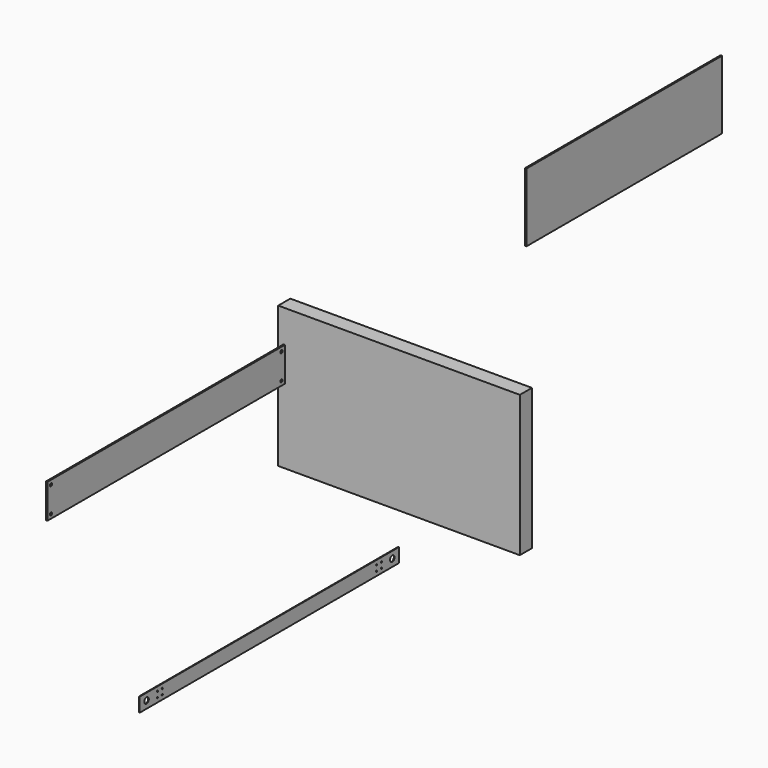
from build123d import *

# Parameters (mm, degrees)
F0_W     = 1075.69
F0_H     = 628.65
F1_DEPTH = 67.31
F2_W     = 1088.39
F2_H     = 304.8
F3_DEPTH = 6.35
F4_W     = 1320.8
F4_H     = 152.4
F4_R     = 6.35
F5_DEPTH = 6.35
F6_W     = 1444.038768
F6_H     = 62.8904
F6_R     = 3.175
F6_R_2   = 12.7
F7_DEPTH = 3.175


with BuildPart() as f1:
    # F0 (on Front) → F1 (new body)
    with BuildSketch(Plane.XZ):
        with Locations((-246.093969, -66.520754)):
            Rectangle(F0_W, F0_H)
    extrude(amount=F1_DEPTH)


with BuildPart() as f3:
    # F2 (on Right) → F3 (new body)
    with BuildSketch(Plane.YZ):
        with Locations((869.913392, 729.254132)):
            Rectangle(F2_W, F2_H)
    extrude(amount=F3_DEPTH)


with BuildPart() as f5:
    # F4 (on Right) → F5 (new body)
    with BuildSketch(Plane.YZ):
        with Locations((-1678.88408, 661.191472)):
            Rectangle(F4_W, F4_H)
        with Locations((-2320.23408, 604.041472)):
            Circle(F4_R, mode=Mode.SUBTRACT)
        with Locations((-1037.53408, 604.041472)):
            Circle(F4_R, mode=Mode.SUBTRACT)
        with Locations((-2320.23408, 718.341472)):
            Circle(F4_R, mode=Mode.SUBTRACT)
        with Locations((-1037.53408, 718.341472)):
            Circle(F4_R, mode=Mode.SUBTRACT)
    extrude(amount=F5_DEPTH)


with BuildPart() as f7:
    # F6 (on Right) → F7 (new body)
    with BuildSketch(Plane.YZ):
        with Locations((-1100.199498, -347.25102)):
            Rectangle(F6_W, F6_H)
        with Locations((-1723.483647, -359.64622)):
            Circle(F6_R, mode=Mode.SUBTRACT)
        with Locations((-1696.762715, -359.64622)):
            Circle(F6_R, mode=Mode.SUBTRACT)
        with Locations((-503.636282, -359.64622)):
            Circle(F6_R, mode=Mode.SUBTRACT)
        with Locations((-476.915349, -359.64622)):
            Circle(F6_R, mode=Mode.SUBTRACT)
        with Locations((-1784.118882, -346.18422)):
            Circle(F6_R_2, mode=Mode.SUBTRACT)
        with Locations((-1723.483647, -334.85582)):
            Circle(F6_R, mode=Mode.SUBTRACT)
        with Locations((-1696.762715, -334.85582)):
            Circle(F6_R, mode=Mode.SUBTRACT)
        with Locations((-416.280114, -346.18422)):
            Circle(F6_R_2, mode=Mode.SUBTRACT)
        with Locations((-503.636282, -334.85582)):
            Circle(F6_R, mode=Mode.SUBTRACT)
        with Locations((-476.915349, -334.85582)):
            Circle(F6_R, mode=Mode.SUBTRACT)
    extrude(amount=F7_DEPTH)


solid = Compound([f1.part, f3.part, f5.part, f7.part])
